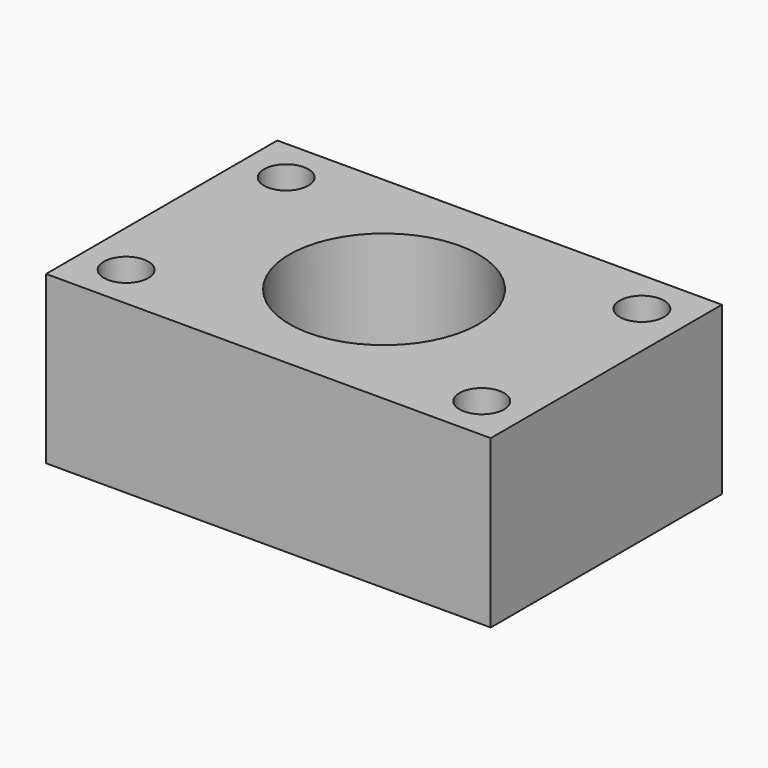
from build123d import *

# Parameters (mm, degrees)
F0_W     = 40
F0_H     = 26
F1_DEPTH = 15
F2_R     = 8.5
F2_R_2   = 2
F3_DEPTH = 15.001


with BuildPart() as f1:
    # F0 (on Top) → F1 (new body)
    with BuildSketch(Plane.XY):
        Rectangle(F0_W, F0_H)
    extrude(amount=F1_DEPTH)

    # F2 (on face) → F3 (cut, through all)
    with BuildSketch(Plane.XY.offset(15)):
        Circle(F2_R)
        with Locations((-16, 9)):
            Circle(F2_R_2)
        with Locations((-16, -9)):
            Circle(F2_R_2)
        with Locations((16, 9)):
            Circle(F2_R_2)
        with Locations((16, -9)):
            Circle(F2_R_2)
    extrude(amount=-F3_DEPTH, mode=Mode.SUBTRACT)


solid = f1.part
